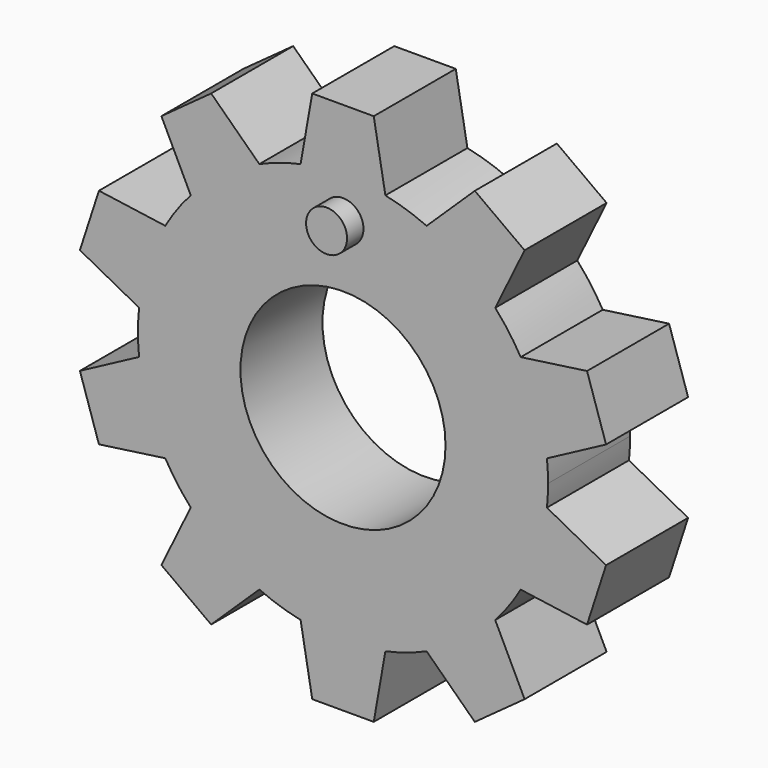
from build123d import *

# Parameters (mm, degrees)
F0_R     = 5
F1_DEPTH = 5
F2_R     = 1
F3_DEPTH = 1


with BuildPart() as f1:
    # F0 (on Front) → F1 (new body)
    with BuildSketch(Plane.XZ):
        with BuildLine():
            ThreePointArc((9.943923, -1.057539), (9.985971, -0.529512), (10, 0))
            ThreePointArc((10, 0), (9.985971, 0.529512), (9.943923, 1.057539))
            ThreePointArc((9.943923, 1.057539), (9.510565, 3.09017), (8.666409, 4.989325))
            ThreePointArc((8.666409, 4.989325), (8.09017, 5.877853), (7.423197, 6.700458))
            ThreePointArc((7.423197, 6.700458), (5.877853, 8.09017), (4.07862, 9.130436))
            ThreePointArc((4.07862, 9.130436), (3.09017, 9.510565), (2.067062, 9.784031))
            ThreePointArc((2.067062, 9.784031), (0, 10), (-2.067062, 9.784031))
            ThreePointArc((-2.067062, 9.784031), (-3.09017, 9.510565), (-4.07862, 9.130436))
            ThreePointArc((-4.07862, 9.130436), (-5.877853, 8.09017), (-7.423197, 6.700458))
            ThreePointArc((-7.423197, 6.700458), (-8.09017, 5.877853), (-8.666409, 4.989325))
            ThreePointArc((-8.666409, 4.989325), (-9.510565, 3.09017), (-9.943923, 1.057539))
            ThreePointArc((-9.943923, 1.057539), (-10, 0), (-9.943923, -1.057539))
            ThreePointArc((-9.943923, -1.057539), (-9.510565, -3.09017), (-8.666409, -4.989325))
            ThreePointArc((-8.666409, -4.989325), (-8.09017, -5.877853), (-7.423197, -6.700458))
            ThreePointArc((-7.423197, -6.700458), (-5.877853, -8.09017), (-4.07862, -9.130436))
            ThreePointArc((-4.07862, -9.130436), (-3.09017, -9.510565), (-2.067062, -9.784031))
            ThreePointArc((-2.067062, -9.784031), (0, -10), (2.067062, -9.784031))
            ThreePointArc((2.067062, -9.784031), (3.09017, -9.510565), (4.07862, -9.130436))
            ThreePointArc((4.07862, -9.130436), (5.877853, -8.09017), (7.423197, -6.700458))
            ThreePointArc((7.423197, -6.700458), (8.09017, -5.877853), (8.666409, -4.989325))
            ThreePointArc((8.666409, -4.989325), (9.510565, -3.09017), (9.943923, -1.057539))
        make_face()
        Circle(F0_R, mode=Mode.SUBTRACT)
        with BuildLine():
            ThreePointArc((8.666409, 4.989325), (9.510565, 3.09017), (9.943923, 1.057539))
            Line((9.943923, 1.057539), (12.82726, 2.590636))
            Line((12.82726, 2.590636), (11.900209, 5.443806))
            Line((11.900209, 5.443806), (8.666409, 4.989325))
        make_face()
        with BuildLine():
            Line((12.82726, -2.590636), (9.943923, -1.057539))
            ThreePointArc((9.943923, -1.057539), (9.510565, -3.09017), (8.666409, -4.989325))
            Line((8.666409, -4.989325), (11.900209, -5.443806))
            Line((11.900209, -5.443806), (12.82726, -2.590636))
        make_face()
        with BuildLine():
            ThreePointArc((4.07862, 9.130436), (5.877853, 8.09017), (7.423197, 6.700458))
            Line((7.423197, 6.700458), (8.854734, 9.635543))
            Line((8.854734, 9.635543), (6.427683, 11.398899))
            Line((6.427683, 11.398899), (4.07862, 9.130436))
        make_face()
        with BuildLine():
            Line((8.854734, -9.635543), (7.423197, -6.700458))
            ThreePointArc((7.423197, -6.700458), (5.877853, -8.09017), (4.07862, -9.130436))
            Line((4.07862, -9.130436), (6.427683, -11.398899))
            Line((6.427683, -11.398899), (8.854734, -9.635543))
        make_face()
        with BuildLine():
            ThreePointArc((-2.067062, 9.784031), (0, 10), (2.067062, 9.784031))
            Line((2.067062, 9.784031), (1.5, 13))
            Line((1.5, 13), (-1.5, 13))
            Line((-1.5, 13), (-2.067062, 9.784031))
        make_face()
        with BuildLine():
            Line((1.5, -13), (2.067062, -9.784031))
            ThreePointArc((2.067062, -9.784031), (0, -10), (-2.067062, -9.784031))
            Line((-2.067062, -9.784031), (-1.5, -13))
            Line((-1.5, -13), (1.5, -13))
        make_face()
        with BuildLine():
            ThreePointArc((-7.423197, 6.700458), (-5.877853, 8.09017), (-4.07862, 9.130436))
            Line((-4.07862, 9.130436), (-6.427683, 11.398899))
            Line((-6.427683, 11.398899), (-8.854734, 9.635543))
            Line((-8.854734, 9.635543), (-7.423197, 6.700458))
        make_face()
        with BuildLine():
            Line((-6.427683, -11.398899), (-4.07862, -9.130436))
            ThreePointArc((-4.07862, -9.130436), (-5.877853, -8.09017), (-7.423197, -6.700458))
            Line((-7.423197, -6.700458), (-8.854734, -9.635543))
            Line((-8.854734, -9.635543), (-6.427683, -11.398899))
        make_face()
        with BuildLine():
            ThreePointArc((-9.943923, 1.057539), (-9.510565, 3.09017), (-8.666409, 4.989325))
            Line((-8.666409, 4.989325), (-11.900209, 5.443806))
            Line((-11.900209, 5.443806), (-12.82726, 2.590636))
            Line((-12.82726, 2.590636), (-9.943923, 1.057539))
        make_face()
        with BuildLine():
            Line((-11.900209, -5.443806), (-8.666409, -4.989325))
            ThreePointArc((-8.666409, -4.989325), (-9.510565, -3.09017), (-9.943923, -1.057539))
            Line((-9.943923, -1.057539), (-12.82726, -2.590636))
            Line((-12.82726, -2.590636), (-11.900209, -5.443806))
        make_face()
    extrude(amount=F1_DEPTH)

    # F2 (on face) → F3 (join)
    with BuildSketch(Plane.XZ.offset(5)):
        with Locations((0, 8)):
            Circle(F2_R)
    extrude(amount=F3_DEPTH)


solid = f1.part
